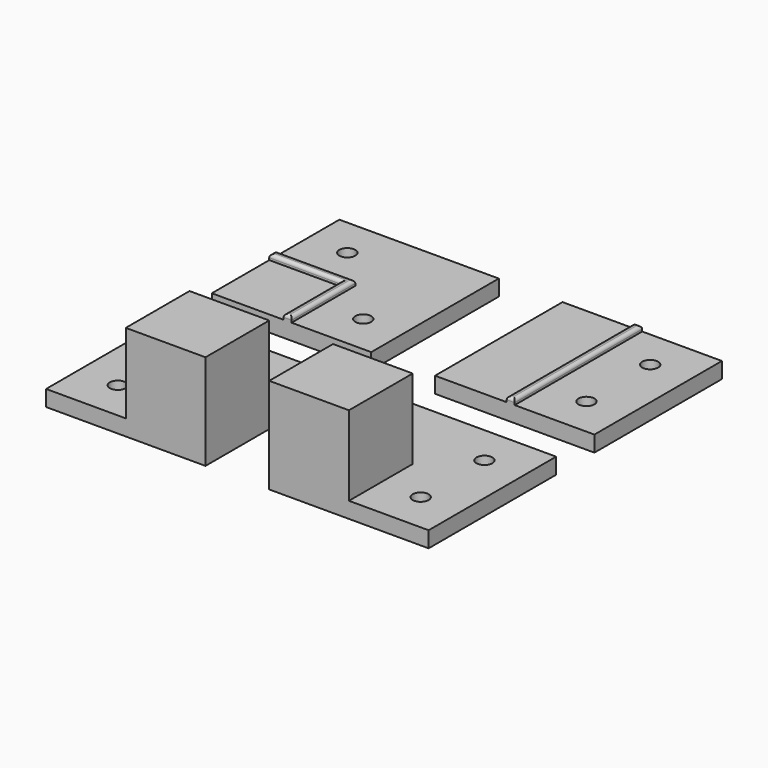
from build123d import *

# Parameters (mm, degrees)
SKETCH_W        = 30
SKETCH_H        = 30
PAD_DEPTH       = 3
PAD001_DEPTH    = 1
FILLET_R        = 0.6
SKETCH002_R     = 1.5
POCKET_DEPTH    = 3.001
SKETCH003_W     = 30
SKETCH003_H     = 30
PAD002_DEPTH    = 3
SKETCH004_W     = 15
SKETCH004_H     = 15
PAD003_DEPTH    = 15
SKETCH007_R     = 1.5
POCKET001_DEPTH = 3.001
SKETCH005_W     = 30
SKETCH005_H     = 30
PAD004_DEPTH    = 3
SKETCH006_W     = 15
SKETCH006_H     = 15
PAD005_DEPTH    = 15
SKETCH008_R     = 1.5
POCKET002_DEPTH = 3.001
SKETCH009_W     = 30
SKETCH009_H     = 30
PAD006_DEPTH    = 3
SKETCH010_W     = 1.5
SKETCH010_H     = 30
PAD007_DEPTH    = 1
FILLET001_R     = 0.6
SKETCH011_R     = 1.5
POCKET003_DEPTH = 3.001


with BuildPart() as obj1:
    # Sketch → Pad (new body)
    with BuildSketch(Plane.XY):
        Rectangle(SKETCH_W, SKETCH_H)
    extrude(amount=PAD_DEPTH)

    # Sketch001 (on Face6 of Pad) → Pad001 (join)
    with BuildSketch(Plane.XY.offset(3)):
        Polygon((0, 0), (-15, 0), (-15, -1.5), (-1.5, -1.5), (-1.5, -15), (0, -15), align=None)
    extrude(amount=PAD001_DEPTH)

    # Fillet
    fillet_edges = [obj1.edges().sort_by_distance(p)[0] for p in [
        (-7.5, 0, 4),
        (0, -7.5, 4),
        (-0.75, -15, 4),
        (-1.5, -8.25, 4),
        (-8.25, -1.5, 4),
        (-15, -0.75, 4),
    ]]
    fillet(fillet_edges, radius=FILLET_R)

    # Sketch002 (on Face9 of Fillet) → Pocket (cut, through all)
    with BuildSketch(Plane.XY.offset(3)):
        with Locations((-7.5, 7.5)):
            Circle(SKETCH002_R)
        with Locations((7.5, -7.5)):
            Circle(SKETCH002_R)
    extrude(amount=-POCKET_DEPTH, mode=Mode.SUBTRACT)


with BuildPart() as obj1_1:
    # Body placement: moved
    add(obj1.part.moved(Location((0, 39, 0))))


with BuildPart() as obj2:
    # Sketch003 → Pad002 (new body)
    with BuildSketch(Plane.XY):
        Rectangle(SKETCH003_W, SKETCH003_H)
    extrude(amount=PAD002_DEPTH)

    # Sketch004 (on Face6 of Pad002) → Pad003 (join)
    with BuildSketch(Plane.XY.offset(3)):
        with Locations((7.5, -7.5)):
            Rectangle(SKETCH004_W, SKETCH004_H)
    extrude(amount=PAD003_DEPTH)

    # Sketch007 (on Face3 of Pad003) → Pocket001 (cut, through all)
    with BuildSketch(Plane.XY.offset(3)):
        with Locations((-7.5, 7.5)):
            Circle(SKETCH007_R)
        with Locations((-7.5, -7.5)):
            Circle(SKETCH007_R)
    extrude(amount=-POCKET001_DEPTH, mode=Mode.SUBTRACT)


with BuildPart() as obj3:
    # Sketch005 → Pad004 (new body)
    with BuildSketch(Plane.XY):
        Rectangle(SKETCH005_W, SKETCH005_H)
    extrude(amount=PAD004_DEPTH)

    # Sketch006 (on Face6 of Pad004) → Pad005 (join)
    with BuildSketch(Plane.XY.offset(3)):
        with Locations((-7.5, -7.5)):
            Rectangle(SKETCH006_W, SKETCH006_H)
    extrude(amount=PAD005_DEPTH)

    # Sketch008 (on Face3 of Pad005) → Pocket002 (cut, through all)
    with BuildSketch(Plane.XY.offset(3)):
        with Locations((7.5, 7.5)):
            Circle(SKETCH008_R)
        with Locations((7.5, -7.5)):
            Circle(SKETCH008_R)
    extrude(amount=-POCKET002_DEPTH, mode=Mode.SUBTRACT)


with BuildPart() as obj3_1:
    # Body002 placement: moved
    add(obj3.part.moved(Location((42, 0, 0))))


with BuildPart() as obj4:
    # Sketch009 → Pad006 (new body)
    with BuildSketch(Plane.XY):
        Rectangle(SKETCH009_W, SKETCH009_H)
    extrude(amount=PAD006_DEPTH)

    # Sketch010 (on Face6 of Pad006) → Pad007 (join)
    with BuildSketch(Plane.XY.offset(3)):
        with Locations((-0.75, 0)):
            Rectangle(SKETCH010_W, SKETCH010_H)
    extrude(amount=PAD007_DEPTH)

    # Fillet001
    fillet001_edges = [obj4.edges().sort_by_distance(p)[0] for p in [
        (-1.5, 0, 4),
        (0, 0, 4),
        (-0.75, 15, 4),
        (-0.75, -15, 4),
    ]]
    fillet(fillet001_edges, radius=FILLET001_R)

    # Sketch011 (on Face9 of Fillet001) → Pocket003 (cut, through all)
    with BuildSketch(Plane.XY.offset(3)):
        with Locations((7.5, 7.5)):
            Circle(SKETCH011_R)
        with Locations((7.5, -7.5)):
            Circle(SKETCH011_R)
    extrude(amount=-POCKET003_DEPTH, mode=Mode.SUBTRACT)


with BuildPart() as obj4_1:
    # Body003 placement: moved
    add(obj4.part.moved(Location((42, 39, 0))))


solid = Compound([obj1_1.part, obj2.part, obj3_1.part, obj4_1.part])
